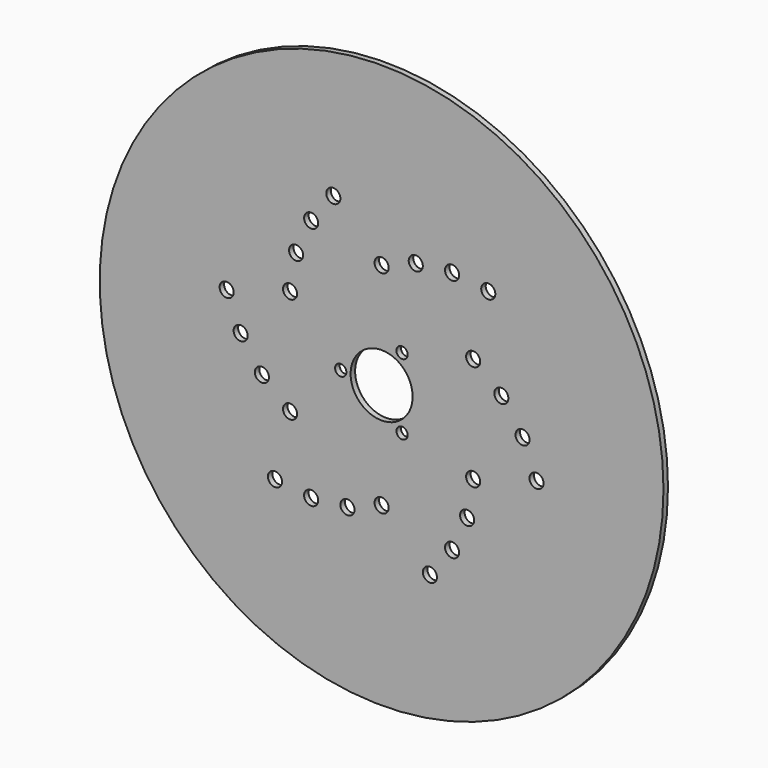
from build123d import *

# Parameters (mm, degrees)
F0_R     = 200
F0_R_2   = 5
F0_R_3   = 4
F0_R_4   = 22
F1_DEPTH = 4


with BuildPart() as f1:
    # F0 (on Front) → F1 (new body)
    with BuildSketch(Plane.XZ):
        Circle(F0_R)
        with Locations((-75.665689, -83.252348)):
            Circle(F0_R_2, mode=Mode.SUBTRACT)
        with Locations((-50, -86.60254)):
            Circle(F0_R_2, mode=Mode.SUBTRACT)
        with Locations((-24.240253, -84.075324)):
            Circle(F0_R_2, mode=Mode.SUBTRACT)
        with Locations((-64.951905, -37.5)):
            Circle(F0_R_2, mode=Mode.SUBTRACT)
        with Locations((-84.931493, -21.044987)):
            Circle(F0_R_2, mode=Mode.SUBTRACT)
        with Locations((34.265804, -107.154583)):
            Circle(F0_R_2, mode=Mode.SUBTRACT)
        with Locations((0, -75)):
            Circle(F0_R_2, mode=Mode.SUBTRACT)
        with Locations((50, -86.60254)):
            Circle(F0_R_2, mode=Mode.SUBTRACT)
        with Locations((60.69124, -63.030337)):
            Circle(F0_R_2, mode=Mode.SUBTRACT)
        with Locations((14.5, -25.114737)):
            Circle(F0_R_3, mode=Mode.SUBTRACT)
        with Locations((64.951905, -37.5)):
            Circle(F0_R_2, mode=Mode.SUBTRACT)
        with Locations((109.931493, -23.902235)):
            Circle(F0_R_2, mode=Mode.SUBTRACT)
        with Locations((-109.931493, 23.902235)):
            Circle(F0_R_2, mode=Mode.SUBTRACT)
        with Locations((-100, 0)):
            Circle(F0_R_2, mode=Mode.SUBTRACT)
        with Locations((-64.951905, 37.5)):
            Circle(F0_R_2, mode=Mode.SUBTRACT)
        with Locations((-29, 0)):
            Circle(F0_R_3, mode=Mode.SUBTRACT)
        with Locations((-60.69124, 63.030337)):
            Circle(F0_R_2, mode=Mode.SUBTRACT)
        with Locations((-50, 86.60254)):
            Circle(F0_R_2, mode=Mode.SUBTRACT)
        with Locations((-34.265804, 107.154583)):
            Circle(F0_R_2, mode=Mode.SUBTRACT)
        Circle(F0_R_4, mode=Mode.SUBTRACT)
        with Locations((14.5, 25.114737)):
            Circle(F0_R_3, mode=Mode.SUBTRACT)
        with Locations((84.931493, 21.044987)):
            Circle(F0_R_2, mode=Mode.SUBTRACT)
        with Locations((64.951905, 37.5)):
            Circle(F0_R_2, mode=Mode.SUBTRACT)
        with Locations((0, 75)):
            Circle(F0_R_2, mode=Mode.SUBTRACT)
        with Locations((24.240253, 84.075324)):
            Circle(F0_R_2, mode=Mode.SUBTRACT)
        with Locations((50, 86.60254)):
            Circle(F0_R_2, mode=Mode.SUBTRACT)
        with Locations((75.665689, 83.252348)):
            Circle(F0_R_2, mode=Mode.SUBTRACT)
        with Locations((100, 0)):
            Circle(F0_R_2, mode=Mode.SUBTRACT)
    extrude(amount=F1_DEPTH)


solid = f1.part
